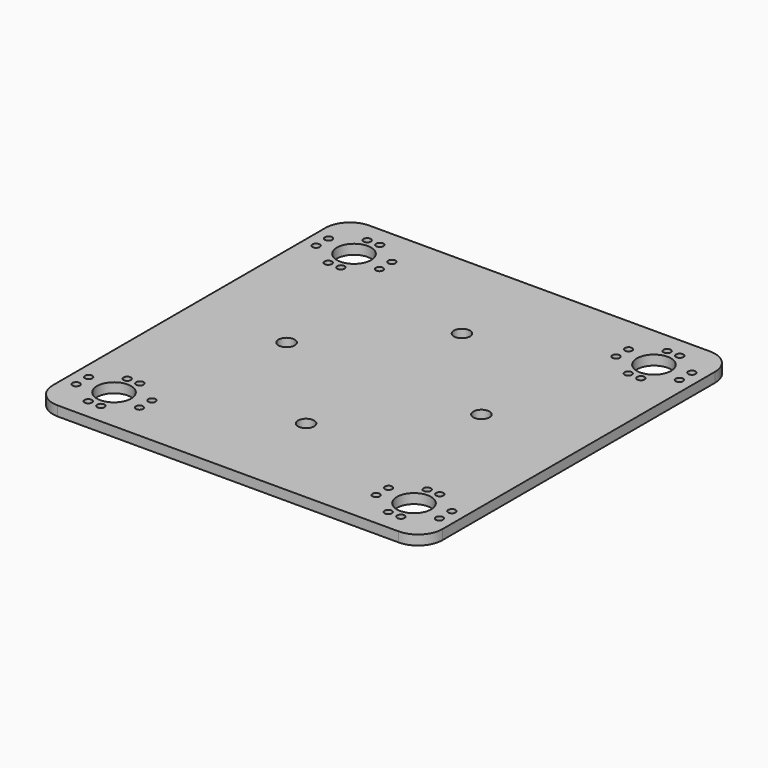
from build123d import *

# Parameters (mm, degrees)
F0_R     = 0.75
F0_R_2   = 3.5
F0_R_3   = 1.65
F1_DEPTH = 2


with BuildPart() as f1:
    # F0 (on Top) → F1 (new body)
    with BuildSketch(Plane.XY):
        with BuildLine():
            Line((-35, -40), (35, -40))
            ThreePointArc((35, -40), (38.535534, -38.535534), (40, -35))
            Line((40, -35), (40, 35))
            ThreePointArc((40, 35), (38.535534, 38.535534), (35, 40))
            Line((35, 40), (-35, 40))
            ThreePointArc((-35, 40), (-38.535534, 38.535534), (-40, 35))
            Line((-40, 35), (-40, -35))
            ThreePointArc((-40, -35), (-38.535534, -38.535534), (-35, -40))
        make_face()
        with Locations((-32.1, -35.8)):
            Circle(F0_R, mode=Mode.SUBTRACT)
        with Locations((-37.3, -32.4)):
            Circle(F0_R, mode=Mode.SUBTRACT)
        with Locations((-30.8, -30.8)):
            Circle(F0_R_2, mode=Mode.SUBTRACT)
        with Locations((-29.5, -35.8)):
            Circle(F0_R, mode=Mode.SUBTRACT)
        with Locations((-24.3, -32.4)):
            Circle(F0_R, mode=Mode.SUBTRACT)
        with Locations((-37.3, -29.2)):
            Circle(F0_R, mode=Mode.SUBTRACT)
        with Locations((-32.1, -25.8)):
            Circle(F0_R, mode=Mode.SUBTRACT)
        with Locations((-29.5, -25.8)):
            Circle(F0_R, mode=Mode.SUBTRACT)
        with Locations((-24.3, -29.2)):
            Circle(F0_R, mode=Mode.SUBTRACT)
        with Locations((29.5, -35.8)):
            Circle(F0_R, mode=Mode.SUBTRACT)
        with Locations((24.3, -32.4)):
            Circle(F0_R, mode=Mode.SUBTRACT)
        with Locations((32.1, -35.8)):
            Circle(F0_R, mode=Mode.SUBTRACT)
        with Locations((30.8, -30.8)):
            Circle(F0_R_2, mode=Mode.SUBTRACT)
        with Locations((37.3, -32.4)):
            Circle(F0_R, mode=Mode.SUBTRACT)
        with Locations((24.3, -29.2)):
            Circle(F0_R, mode=Mode.SUBTRACT)
        with Locations((29.5, -25.8)):
            Circle(F0_R, mode=Mode.SUBTRACT)
        with Locations((32.1, -25.8)):
            Circle(F0_R, mode=Mode.SUBTRACT)
        with Locations((37.3, -29.2)):
            Circle(F0_R, mode=Mode.SUBTRACT)
        with Locations((0, -20)):
            Circle(F0_R_3, mode=Mode.SUBTRACT)
        with Locations((-20, 0)):
            Circle(F0_R_3, mode=Mode.SUBTRACT)
        with Locations((-37.3, 29.2)):
            Circle(F0_R, mode=Mode.SUBTRACT)
        with Locations((-32.1, 25.8)):
            Circle(F0_R, mode=Mode.SUBTRACT)
        with Locations((-29.5, 25.8)):
            Circle(F0_R, mode=Mode.SUBTRACT)
        with Locations((-24.3, 29.2)):
            Circle(F0_R, mode=Mode.SUBTRACT)
        with Locations((-37.3, 32.4)):
            Circle(F0_R, mode=Mode.SUBTRACT)
        with Locations((-30.8, 30.8)):
            Circle(F0_R_2, mode=Mode.SUBTRACT)
        with Locations((-32.1, 35.8)):
            Circle(F0_R, mode=Mode.SUBTRACT)
        with Locations((-24.3, 32.4)):
            Circle(F0_R, mode=Mode.SUBTRACT)
        with Locations((-29.5, 35.8)):
            Circle(F0_R, mode=Mode.SUBTRACT)
        with Locations((20, 0)):
            Circle(F0_R_3, mode=Mode.SUBTRACT)
        with Locations((0, 20)):
            Circle(F0_R_3, mode=Mode.SUBTRACT)
        with Locations((24.3, 29.2)):
            Circle(F0_R, mode=Mode.SUBTRACT)
        with Locations((29.5, 25.8)):
            Circle(F0_R, mode=Mode.SUBTRACT)
        with Locations((32.1, 25.8)):
            Circle(F0_R, mode=Mode.SUBTRACT)
        with Locations((37.3, 29.2)):
            Circle(F0_R, mode=Mode.SUBTRACT)
        with Locations((24.3, 32.4)):
            Circle(F0_R, mode=Mode.SUBTRACT)
        with Locations((29.5, 35.8)):
            Circle(F0_R, mode=Mode.SUBTRACT)
        with Locations((30.8, 30.8)):
            Circle(F0_R_2, mode=Mode.SUBTRACT)
        with Locations((37.3, 32.4)):
            Circle(F0_R, mode=Mode.SUBTRACT)
        with Locations((32.1, 35.8)):
            Circle(F0_R, mode=Mode.SUBTRACT)
    extrude(amount=F1_DEPTH)


solid = f1.part
